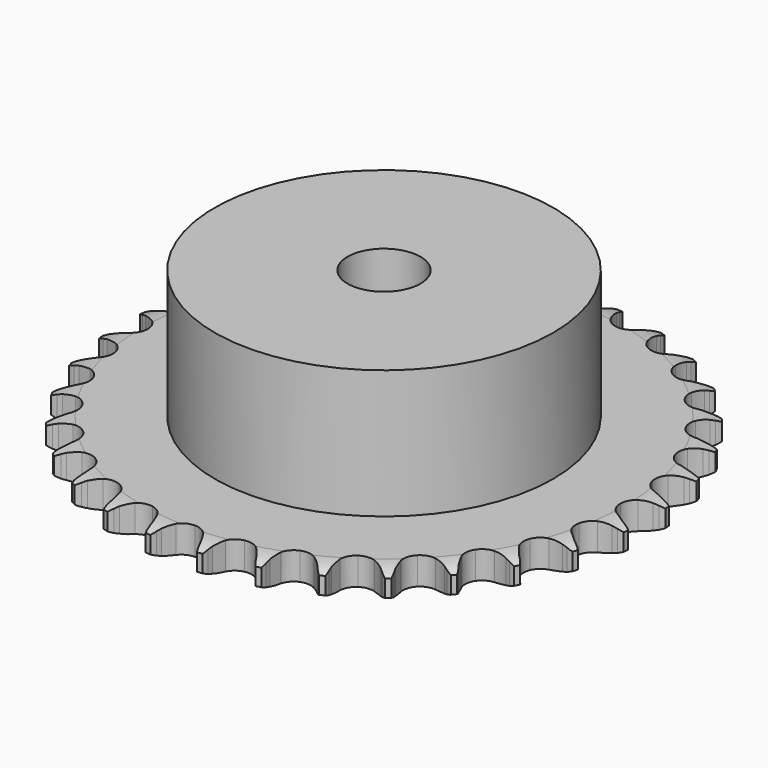
from build123d import *

# Parameters (mm, degrees)
PAD_DEPTH         = 5.3
SKETCH001_R       = 32.5
PAD001_DEPTH      = 30
SKETCH002_R       = 7
POCKET_DEPTH      = 0.001
POCKET_DEPTH_BACK = 30.001


with BuildPart() as part:
    # Sprocket → Pad (new body)
    with BuildSketch(Plane.XY):
        with BuildLine():
            ThreePointArc((-5.042302, 51.195355), (-4.453046, 50.412832), (-4.022448, 49.532973))
            Line((-4.022448, 49.532973), (-3.71269, 48.709966))
            ThreePointArc((-3.71269, 48.709966), (-3.220972, 47.640279), (-2.583007, 46.650826))
            ThreePointArc((-2.583007, 46.650826), (-1.443913, 45.700293), (0, 45.359466))
            ThreePointArc((0, 45.359466), (1.443913, 45.700293), (2.583007, 46.650826))
            ThreePointArc((2.583007, 46.650826), (3.220972, 47.640279), (3.71269, 48.709966))
            Line((3.71269, 48.709966), (4.022448, 49.532973))
            ThreePointArc((4.022448, 49.532973), (4.453046, 50.412832), (5.042302, 51.195355))
            ThreePointArc((5.042302, 51.195355), (5.467574, 50.312909), (5.718245, 49.365952))
            Line((5.718245, 49.365952), (5.861491, 48.498327))
            ThreePointArc((5.861491, 48.498327), (6.135075, 47.353265), (6.567749, 46.258363))
            ThreePointArc((6.567749, 46.258363), (7.499516, 45.103868), (8.849193, 44.487896))
            ThreePointArc((8.849193, 44.487896), (10.331853, 44.540482), (11.6345, 45.250523))
            Line((11.6345, 45.250523), (13.144195, 47.049707))
            ThreePointArc((13.144195, 47.049707), (13.366492, 47.429236), (13.608562, 47.79647))
            ThreePointArc((13.608562, 47.79647), (14.202537, 48.575417), (14.933134, 49.227946))
            ThreePointArc((14.933134, 49.227946), (15.178078, 48.27949), (15.23919, 47.301824))
            Line((15.23919, 47.301824), (15.210418, 46.422925))
            ThreePointArc((15.210418, 46.422925), (15.255355, 45.246491), (15.46611, 44.088217))
            ThreePointArc((15.46611, 44.088217), (16.154743, 42.774127), (17.358316, 41.906682))
            ThreePointArc((17.358316, 41.906682), (18.822747, 41.669004), (20.238886, 42.111269))
            Line((20.238886, 42.111269), (22.070576, 43.581355))
            ThreePointArc((22.070576, 43.581355), (22.362644, 43.910224), (22.671706, 44.223176))
            ThreePointArc((22.671706, 44.223176), (23.406233, 44.871276), (24.250094, 45.368735))
            ThreePointArc((24.250094, 45.368735), (24.305296, 44.390717), (24.174502, 43.419915))
            Line((24.174502, 43.419915), (23.974818, 42.563517))
            ThreePointArc((23.974818, 42.563517), (23.78938, 41.40092), (23.770118, 40.223786))
            ThreePointArc((23.770118, 40.223786), (24.189153, 38.8006), (25.200369, 37.715017))
            ThreePointArc((25.200369, 37.715017), (26.590292, 37.19621), (28.065502, 37.353702))
            Line((28.065502, 37.353702), (30.148796, 38.438196))
            ThreePointArc((30.148796, 38.438196), (30.499412, 38.703765), (30.863589, 38.950409))
            ThreePointArc((30.863589, 38.950409), (31.710441, 39.442758), (32.635136, 39.766029))
            ThreePointArc((32.635136, 39.766029), (32.498476, 38.796034), (32.180801, 37.869402))
            Line((32.180801, 37.869402), (31.817878, 37.068416))
            ThreePointArc((31.817878, 37.068416), (31.409193, 35.964335), (31.160653, 34.813577))
            ThreePointArc((31.160653, 34.813577), (31.293987, 33.335988), (32.073986, 32.073986))
            ThreePointArc((32.073986, 32.073986), (33.335988, 31.293987), (34.813577, 31.160653))
            Line((34.813577, 31.160653), (37.068416, 31.817878))
            ThreePointArc((37.068416, 31.817878), (37.464104, 32.009943), (37.869402, 32.180801))
            ThreePointArc((37.869402, 32.180801), (38.796034, 32.498476), (39.766029, 32.635136))
            ThreePointArc((39.766029, 32.635136), (39.442758, 31.710441), (38.950409, 30.863589))
            Line((38.950409, 30.863589), (38.438196, 30.148796))
            ThreePointArc((38.438196, 30.148796), (37.821968, 29.145661), (37.353702, 28.065502))
            ThreePointArc((37.353702, 28.065502), (37.19621, 26.590292), (37.715017, 25.200369))
            ThreePointArc((37.715017, 25.200369), (38.8006, 24.189153), (40.223786, 23.770118))
            Line((40.223786, 23.770118), (42.563517, 23.974818))
            ThreePointArc((42.563517, 23.974818), (42.989072, 24.085997), (43.419915, 24.174502))
            ThreePointArc((43.419915, 24.174502), (44.390717, 24.305296), (45.368735, 24.250094))
            ThreePointArc((45.368735, 24.250094), (44.871276, 23.406233), (44.223176, 22.671706))
            Line((44.223176, 22.671706), (43.581355, 22.070576))
            ThreePointArc((43.581355, 22.070576), (42.781266, 21.206936), (42.111269, 20.238886))
            ThreePointArc((42.111269, 20.238886), (41.669004, 18.822747), (41.906682, 17.358316))
            ThreePointArc((41.906682, 17.358316), (42.774127, 16.154743), (44.088217, 15.46611))
            Line((44.088217, 15.46611), (46.422925, 15.210418))
            ThreePointArc((46.422925, 15.210418), (46.861994, 15.23644), (47.301824, 15.23919))
            ThreePointArc((47.301824, 15.23919), (48.27949, 15.178078), (49.227946, 14.933134))
            ThreePointArc((49.227946, 14.933134), (48.575417, 14.202537), (47.79647, 13.608562))
            Line((47.79647, 13.608562), (47.049707, 13.144195))
            ThreePointArc((47.049707, 13.144195), (46.096504, 12.453239), (45.250523, 11.6345))
            ThreePointArc((45.250523, 11.6345), (44.540482, 10.331853), (44.487896, 8.849193))
            ThreePointArc((44.487896, 8.849193), (45.103868, 7.499516), (46.258363, 6.567749))
            Line((46.258363, 6.567749), (48.498327, 5.861491))
            ThreePointArc((48.498327, 5.861491), (48.934036, 5.801354), (49.365952, 5.718245))
            ThreePointArc((49.365952, 5.718245), (50.312909, 5.467574), (51.195355, 5.042302))
            ThreePointArc((51.195355, 5.042302), (50.412832, 4.453046), (49.532973, 4.022448))
            Line((49.532973, 4.022448), (48.709966, 3.71269))
            ThreePointArc((48.709966, 3.71269), (47.640279, 3.220972), (46.650826, 2.583007))
            ThreePointArc((46.650826, 2.583007), (45.700293, 1.443913), (45.359466, 0))
            ThreePointArc((45.359466, 0), (45.700293, -1.443913), (46.650826, -2.583007))
            Line((46.650826, -2.583007), (48.709966, -3.71269))
            ThreePointArc((48.709966, -3.71269), (49.12557, -3.856674), (49.532973, -4.022448))
            ThreePointArc((49.532973, -4.022448), (50.412832, -4.453046), (51.195355, -5.042302))
            ThreePointArc((51.195355, -5.042302), (50.312909, -5.467574), (49.365952, -5.718245))
            Line((49.365952, -5.718245), (48.498327, -5.861491))
            ThreePointArc((48.498327, -5.861491), (47.353265, -6.135075), (46.258363, -6.567749))
            ThreePointArc((46.258363, -6.567749), (45.103868, -7.499516), (44.487896, -8.849193))
            ThreePointArc((44.487896, -8.849193), (44.540482, -10.331853), (45.250523, -11.6345))
            Line((45.250523, -11.6345), (47.049707, -13.144195))
            ThreePointArc((47.049707, -13.144195), (47.429236, -13.366492), (47.79647, -13.608562))
            ThreePointArc((47.79647, -13.608562), (48.575417, -14.202537), (49.227946, -14.933134))
            ThreePointArc((49.227946, -14.933134), (48.27949, -15.178078), (47.301824, -15.23919))
            Line((47.301824, -15.23919), (46.422925, -15.210418))
            ThreePointArc((46.422925, -15.210418), (45.246491, -15.255355), (44.088217, -15.46611))
            ThreePointArc((44.088217, -15.46611), (42.774127, -16.154743), (41.906682, -17.358316))
            ThreePointArc((41.906682, -17.358316), (41.669004, -18.822747), (42.111269, -20.238886))
            Line((42.111269, -20.238886), (43.581355, -22.070576))
            ThreePointArc((43.581355, -22.070576), (43.910224, -22.362644), (44.223176, -22.671706))
            ThreePointArc((44.223176, -22.671706), (44.871276, -23.406233), (45.368735, -24.250094))
            ThreePointArc((45.368735, -24.250094), (44.390717, -24.305296), (43.419915, -24.174502))
            Line((43.419915, -24.174502), (42.563517, -23.974818))
            ThreePointArc((42.563517, -23.974818), (41.40092, -23.78938), (40.223786, -23.770118))
            ThreePointArc((40.223786, -23.770118), (38.8006, -24.189153), (37.715017, -25.200369))
            ThreePointArc((37.715017, -25.200369), (37.19621, -26.590292), (37.353702, -28.065502))
            Line((37.353702, -28.065502), (38.438196, -30.148796))
            ThreePointArc((38.438196, -30.148796), (38.703765, -30.499412), (38.950409, -30.863589))
            ThreePointArc((38.950409, -30.863589), (39.442758, -31.710441), (39.766029, -32.635136))
            ThreePointArc((39.766029, -32.635136), (38.796034, -32.498476), (37.869402, -32.180801))
            Line((37.869402, -32.180801), (37.068416, -31.817878))
            ThreePointArc((37.068416, -31.817878), (35.964335, -31.409193), (34.813577, -31.160653))
            ThreePointArc((34.813577, -31.160653), (33.335988, -31.293987), (32.073986, -32.073986))
            ThreePointArc((32.073986, -32.073986), (31.293987, -33.335988), (31.160653, -34.813577))
            Line((31.160653, -34.813577), (31.817878, -37.068416))
            ThreePointArc((31.817878, -37.068416), (32.009943, -37.464104), (32.180801, -37.869402))
            ThreePointArc((32.180801, -37.869402), (32.498476, -38.796034), (32.635136, -39.766029))
            ThreePointArc((32.635136, -39.766029), (31.710441, -39.442758), (30.863589, -38.950409))
            Line((30.863589, -38.950409), (30.148796, -38.438196))
            ThreePointArc((30.148796, -38.438196), (29.145661, -37.821968), (28.065502, -37.353702))
            ThreePointArc((28.065502, -37.353702), (26.590292, -37.19621), (25.200369, -37.715017))
            ThreePointArc((25.200369, -37.715017), (24.189153, -38.8006), (23.770118, -40.223786))
            Line((23.770118, -40.223786), (23.974818, -42.563517))
            ThreePointArc((23.974818, -42.563517), (24.085997, -42.989072), (24.174502, -43.419915))
            ThreePointArc((24.174502, -43.419915), (24.305296, -44.390717), (24.250094, -45.368735))
            ThreePointArc((24.250094, -45.368735), (23.406233, -44.871276), (22.671706, -44.223176))
            Line((22.671706, -44.223176), (22.070576, -43.581355))
            ThreePointArc((22.070576, -43.581355), (21.206936, -42.781266), (20.238886, -42.111269))
            ThreePointArc((20.238886, -42.111269), (18.822747, -41.669004), (17.358316, -41.906682))
            ThreePointArc((17.358316, -41.906682), (16.154743, -42.774127), (15.46611, -44.088217))
            Line((15.46611, -44.088217), (15.210418, -46.422925))
            ThreePointArc((15.210418, -46.422925), (15.23644, -46.861994), (15.23919, -47.301824))
            ThreePointArc((15.23919, -47.301824), (15.178078, -48.27949), (14.933134, -49.227946))
            ThreePointArc((14.933134, -49.227946), (14.202537, -48.575417), (13.608562, -47.79647))
            Line((13.608562, -47.79647), (13.144195, -47.049707))
            ThreePointArc((13.144195, -47.049707), (12.453239, -46.096504), (11.6345, -45.250523))
            ThreePointArc((11.6345, -45.250523), (10.331853, -44.540482), (8.849193, -44.487896))
            ThreePointArc((8.849193, -44.487896), (7.499516, -45.103868), (6.567749, -46.258363))
            Line((6.567749, -46.258363), (5.861491, -48.498327))
            ThreePointArc((5.861491, -48.498327), (5.801354, -48.934036), (5.718245, -49.365952))
            ThreePointArc((5.718245, -49.365952), (5.467574, -50.312909), (5.042302, -51.195355))
            ThreePointArc((5.042302, -51.195355), (4.453046, -50.412832), (4.022448, -49.532973))
            Line((4.022448, -49.532973), (3.71269, -48.709966))
            ThreePointArc((3.71269, -48.709966), (3.220972, -47.640279), (2.583007, -46.650826))
            ThreePointArc((2.583007, -46.650826), (1.443913, -45.700293), (0, -45.359466))
            ThreePointArc((0, -45.359466), (-1.443913, -45.700293), (-2.583007, -46.650826))
            Line((-2.583007, -46.650826), (-3.71269, -48.709966))
            ThreePointArc((-3.71269, -48.709966), (-3.856674, -49.12557), (-4.022448, -49.532973))
            ThreePointArc((-4.022448, -49.532973), (-4.453046, -50.412832), (-5.042302, -51.195355))
            ThreePointArc((-5.042302, -51.195355), (-5.467574, -50.312909), (-5.718245, -49.365952))
            Line((-5.718245, -49.365952), (-5.861491, -48.498327))
            ThreePointArc((-5.861491, -48.498327), (-6.135075, -47.353265), (-6.567749, -46.258363))
            ThreePointArc((-6.567749, -46.258363), (-7.499516, -45.103868), (-8.849193, -44.487896))
            ThreePointArc((-8.849193, -44.487896), (-10.331853, -44.540482), (-11.6345, -45.250523))
            Line((-11.6345, -45.250523), (-13.144195, -47.049707))
            ThreePointArc((-13.144195, -47.049707), (-13.366492, -47.429236), (-13.608562, -47.79647))
            ThreePointArc((-13.608562, -47.79647), (-14.202537, -48.575417), (-14.933134, -49.227946))
            ThreePointArc((-14.933134, -49.227946), (-15.178078, -48.27949), (-15.23919, -47.301824))
            Line((-15.23919, -47.301824), (-15.210418, -46.422925))
            ThreePointArc((-15.210418, -46.422925), (-15.255355, -45.246491), (-15.46611, -44.088217))
            ThreePointArc((-15.46611, -44.088217), (-16.154743, -42.774127), (-17.358316, -41.906682))
            ThreePointArc((-17.358316, -41.906682), (-18.822747, -41.669004), (-20.238886, -42.111269))
            Line((-20.238886, -42.111269), (-22.070576, -43.581355))
            ThreePointArc((-22.070576, -43.581355), (-22.362644, -43.910224), (-22.671706, -44.223176))
            ThreePointArc((-22.671706, -44.223176), (-23.406233, -44.871276), (-24.250094, -45.368735))
            ThreePointArc((-24.250094, -45.368735), (-24.305296, -44.390717), (-24.174502, -43.419915))
            Line((-24.174502, -43.419915), (-23.974818, -42.563517))
            ThreePointArc((-23.974818, -42.563517), (-23.78938, -41.40092), (-23.770118, -40.223786))
            ThreePointArc((-23.770118, -40.223786), (-24.189153, -38.8006), (-25.200369, -37.715017))
            ThreePointArc((-25.200369, -37.715017), (-26.590292, -37.19621), (-28.065502, -37.353702))
            Line((-28.065502, -37.353702), (-30.148796, -38.438196))
            ThreePointArc((-30.148796, -38.438196), (-30.499412, -38.703765), (-30.863589, -38.950409))
            ThreePointArc((-30.863589, -38.950409), (-31.710441, -39.442758), (-32.635136, -39.766029))
            ThreePointArc((-32.635136, -39.766029), (-32.498476, -38.796034), (-32.180801, -37.869402))
            Line((-32.180801, -37.869402), (-31.817878, -37.068416))
            ThreePointArc((-31.817878, -37.068416), (-31.409193, -35.964335), (-31.160653, -34.813577))
            ThreePointArc((-31.160653, -34.813577), (-31.293987, -33.335988), (-32.073986, -32.073986))
            ThreePointArc((-32.073986, -32.073986), (-33.335988, -31.293987), (-34.813577, -31.160653))
            Line((-34.813577, -31.160653), (-37.068416, -31.817878))
            ThreePointArc((-37.068416, -31.817878), (-37.464104, -32.009943), (-37.869402, -32.180801))
            ThreePointArc((-37.869402, -32.180801), (-38.796034, -32.498476), (-39.766029, -32.635136))
            ThreePointArc((-39.766029, -32.635136), (-39.442758, -31.710441), (-38.950409, -30.863589))
            Line((-38.950409, -30.863589), (-38.438196, -30.148796))
            ThreePointArc((-38.438196, -30.148796), (-37.821968, -29.145661), (-37.353702, -28.065502))
            ThreePointArc((-37.353702, -28.065502), (-37.19621, -26.590292), (-37.715017, -25.200369))
            ThreePointArc((-37.715017, -25.200369), (-38.8006, -24.189153), (-40.223786, -23.770118))
            Line((-40.223786, -23.770118), (-42.563517, -23.974818))
            ThreePointArc((-42.563517, -23.974818), (-42.989072, -24.085997), (-43.419915, -24.174502))
            ThreePointArc((-43.419915, -24.174502), (-44.390717, -24.305296), (-45.368735, -24.250094))
            ThreePointArc((-45.368735, -24.250094), (-44.871276, -23.406233), (-44.223176, -22.671706))
            Line((-44.223176, -22.671706), (-43.581355, -22.070576))
            ThreePointArc((-43.581355, -22.070576), (-42.781266, -21.206936), (-42.111269, -20.238886))
            ThreePointArc((-42.111269, -20.238886), (-41.669004, -18.822747), (-41.906682, -17.358316))
            ThreePointArc((-41.906682, -17.358316), (-42.774127, -16.154743), (-44.088217, -15.46611))
            Line((-44.088217, -15.46611), (-46.422925, -15.210418))
            ThreePointArc((-46.422925, -15.210418), (-46.861994, -15.23644), (-47.301824, -15.23919))
            ThreePointArc((-47.301824, -15.23919), (-48.27949, -15.178078), (-49.227946, -14.933134))
            ThreePointArc((-49.227946, -14.933134), (-48.575417, -14.202537), (-47.79647, -13.608562))
            Line((-47.79647, -13.608562), (-47.049707, -13.144195))
            ThreePointArc((-47.049707, -13.144195), (-46.096504, -12.453239), (-45.250523, -11.6345))
            ThreePointArc((-45.250523, -11.6345), (-44.540482, -10.331853), (-44.487896, -8.849193))
            ThreePointArc((-44.487896, -8.849193), (-45.103868, -7.499516), (-46.258363, -6.567749))
            Line((-46.258363, -6.567749), (-48.498327, -5.861491))
            ThreePointArc((-48.498327, -5.861491), (-48.934036, -5.801354), (-49.365952, -5.718245))
            ThreePointArc((-49.365952, -5.718245), (-50.312909, -5.467574), (-51.195355, -5.042302))
            ThreePointArc((-51.195355, -5.042302), (-50.412832, -4.453046), (-49.532973, -4.022448))
            Line((-49.532973, -4.022448), (-48.709966, -3.71269))
            ThreePointArc((-48.709966, -3.71269), (-47.640279, -3.220972), (-46.650826, -2.583007))
            ThreePointArc((-46.650826, -2.583007), (-45.700293, -1.443913), (-45.359466, 0))
            ThreePointArc((-45.359466, 0), (-45.700293, 1.443913), (-46.650826, 2.583007))
            Line((-46.650826, 2.583007), (-48.709966, 3.71269))
            ThreePointArc((-48.709966, 3.71269), (-49.12557, 3.856674), (-49.532973, 4.022448))
            ThreePointArc((-49.532973, 4.022448), (-50.412832, 4.453046), (-51.195355, 5.042302))
            ThreePointArc((-51.195355, 5.042302), (-50.312909, 5.467574), (-49.365952, 5.718245))
            Line((-49.365952, 5.718245), (-48.498327, 5.861491))
            ThreePointArc((-48.498327, 5.861491), (-47.353265, 6.135075), (-46.258363, 6.567749))
            ThreePointArc((-46.258363, 6.567749), (-45.103868, 7.499516), (-44.487896, 8.849193))
            ThreePointArc((-44.487896, 8.849193), (-44.540482, 10.331853), (-45.250523, 11.6345))
            Line((-45.250523, 11.6345), (-47.049707, 13.144195))
            ThreePointArc((-47.049707, 13.144195), (-47.429236, 13.366492), (-47.79647, 13.608562))
            ThreePointArc((-47.79647, 13.608562), (-48.575417, 14.202537), (-49.227946, 14.933134))
            ThreePointArc((-49.227946, 14.933134), (-48.27949, 15.178078), (-47.301824, 15.23919))
            Line((-47.301824, 15.23919), (-46.422925, 15.210418))
            ThreePointArc((-46.422925, 15.210418), (-45.246491, 15.255355), (-44.088217, 15.46611))
            ThreePointArc((-44.088217, 15.46611), (-42.774127, 16.154743), (-41.906682, 17.358316))
            ThreePointArc((-41.906682, 17.358316), (-41.669004, 18.822747), (-42.111269, 20.238886))
            Line((-42.111269, 20.238886), (-43.581355, 22.070576))
            ThreePointArc((-43.581355, 22.070576), (-43.910224, 22.362644), (-44.223176, 22.671706))
            ThreePointArc((-44.223176, 22.671706), (-44.871276, 23.406233), (-45.368735, 24.250094))
            ThreePointArc((-45.368735, 24.250094), (-44.390717, 24.305296), (-43.419915, 24.174502))
            Line((-43.419915, 24.174502), (-42.563517, 23.974818))
            ThreePointArc((-42.563517, 23.974818), (-41.40092, 23.78938), (-40.223786, 23.770118))
            ThreePointArc((-40.223786, 23.770118), (-38.8006, 24.189153), (-37.715017, 25.200369))
            ThreePointArc((-37.715017, 25.200369), (-37.19621, 26.590292), (-37.353702, 28.065502))
            Line((-37.353702, 28.065502), (-38.438196, 30.148796))
            ThreePointArc((-38.438196, 30.148796), (-38.703765, 30.499412), (-38.950409, 30.863589))
            ThreePointArc((-38.950409, 30.863589), (-39.442758, 31.710441), (-39.766029, 32.635136))
            ThreePointArc((-39.766029, 32.635136), (-38.796034, 32.498476), (-37.869402, 32.180801))
            Line((-37.869402, 32.180801), (-37.068416, 31.817878))
            ThreePointArc((-37.068416, 31.817878), (-35.964335, 31.409193), (-34.813577, 31.160653))
            ThreePointArc((-34.813577, 31.160653), (-33.335988, 31.293987), (-32.073986, 32.073986))
            ThreePointArc((-32.073986, 32.073986), (-31.293987, 33.335988), (-31.160653, 34.813577))
            Line((-31.160653, 34.813577), (-31.817878, 37.068416))
            ThreePointArc((-31.817878, 37.068416), (-32.009943, 37.464104), (-32.180801, 37.869402))
            ThreePointArc((-32.180801, 37.869402), (-32.498476, 38.796034), (-32.635136, 39.766029))
            ThreePointArc((-32.635136, 39.766029), (-31.710441, 39.442758), (-30.863589, 38.950409))
            Line((-30.863589, 38.950409), (-30.148796, 38.438196))
            ThreePointArc((-30.148796, 38.438196), (-29.145661, 37.821968), (-28.065502, 37.353702))
            ThreePointArc((-28.065502, 37.353702), (-26.590292, 37.19621), (-25.200369, 37.715017))
            ThreePointArc((-25.200369, 37.715017), (-24.189153, 38.8006), (-23.770118, 40.223786))
            Line((-23.770118, 40.223786), (-23.974818, 42.563517))
            ThreePointArc((-23.974818, 42.563517), (-24.085997, 42.989072), (-24.174502, 43.419915))
            ThreePointArc((-24.174502, 43.419915), (-24.305296, 44.390717), (-24.250094, 45.368735))
            ThreePointArc((-24.250094, 45.368735), (-23.406233, 44.871276), (-22.671706, 44.223176))
            Line((-22.671706, 44.223176), (-22.070576, 43.581355))
            ThreePointArc((-22.070576, 43.581355), (-21.206936, 42.781266), (-20.238886, 42.111269))
            ThreePointArc((-20.238886, 42.111269), (-18.822747, 41.669004), (-17.358316, 41.906682))
            ThreePointArc((-17.358316, 41.906682), (-16.154743, 42.774127), (-15.46611, 44.088217))
            Line((-15.46611, 44.088217), (-15.210418, 46.422925))
            ThreePointArc((-15.210418, 46.422925), (-15.23644, 46.861994), (-15.23919, 47.301824))
            ThreePointArc((-15.23919, 47.301824), (-15.178078, 48.27949), (-14.933134, 49.227946))
            ThreePointArc((-14.933134, 49.227946), (-14.202537, 48.575417), (-13.608562, 47.79647))
            Line((-13.608562, 47.79647), (-13.144195, 47.049707))
            ThreePointArc((-13.144195, 47.049707), (-12.453239, 46.096504), (-11.6345, 45.250523))
            ThreePointArc((-11.6345, 45.250523), (-10.331853, 44.540482), (-8.849193, 44.487896))
            ThreePointArc((-8.849193, 44.487896), (-7.499516, 45.103868), (-6.567749, 46.258363))
            Line((-6.567749, 46.258363), (-5.861491, 48.498327))
            ThreePointArc((-5.861491, 48.498327), (-5.801354, 48.934036), (-5.718245, 49.365952))
            ThreePointArc((-5.718245, 49.365952), (-5.467574, 50.312909), (-5.042302, 51.195355))
        make_face()
    extrude(amount=PAD_DEPTH)

    # Sketch → Groove (revolve, cut)
    with BuildSketch(Plane.XZ):
        with BuildLine():
            Line((46.291101, 0), (50.65, 0))
            Line((55.008899, 0), (50.65, 0))
            Line((55.008899, 5.3), (55.008899, 0))
            Line((50.65, 5.3), (55.008899, 5.3))
            Line((46.291101, 5.3), (50.65, 5.3))
            ThreePointArc((50.65, 4.3), (48.527169, 5.046794), (46.291101, 5.3))
            Line((50.65, 1), (50.65, 4.3))
            ThreePointArc((46.291101, 0), (48.527169, 0.253206), (50.65, 1))
        make_face()
    revolve(axis=Axis((0, 0, 0), (0, 0, 1)), mode=Mode.SUBTRACT)

    # Sketch001 → Pad001 (join)
    with BuildSketch(Plane.XY):
        Circle(SKETCH001_R)
    extrude(amount=PAD001_DEPTH)

    # Sketch002 → Pocket (cut, two sides)
    with BuildSketch(Plane.XY) as pocket_sk:
        Circle(SKETCH002_R)
    extrude(amount=-POCKET_DEPTH, mode=Mode.SUBTRACT)
    extrude(pocket_sk.sketch, amount=POCKET_DEPTH_BACK, mode=Mode.SUBTRACT)


solid = part.part
